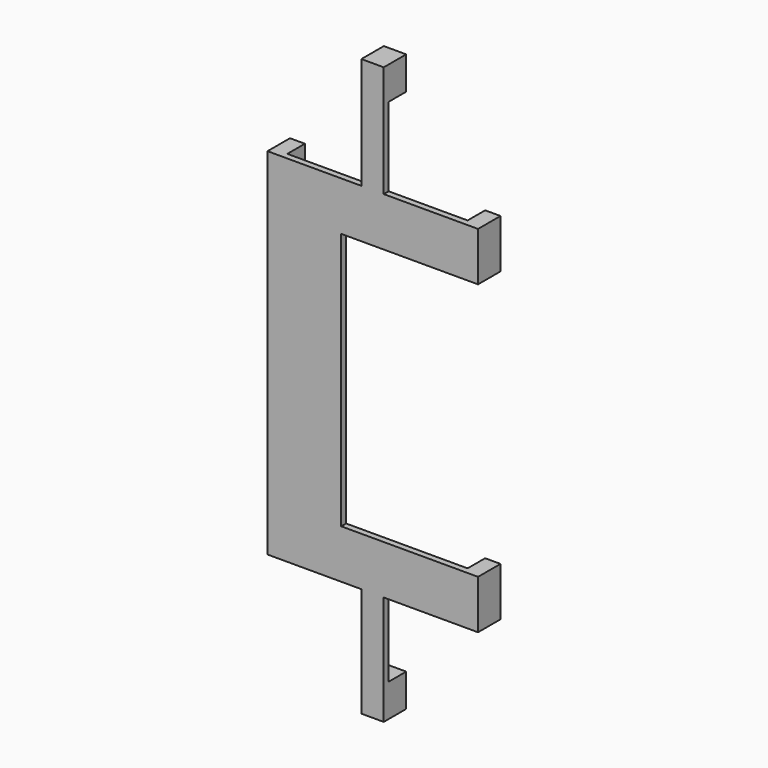
from build123d import *

# Parameters (mm, degrees)
F1_W     = 5.1
F1_H     = 25.4518292156
F1_W_2   = 16.8019917254
F1_H_2   = 58.7057016664
F1_H_3   = 24.982469118
F2_DEPTH = 1.4
F3_W     = 5.1
F3_H     = 7.5
F3_W_2   = 3.5
F3_H_2   = 11.13
F3_W_3   = 3.4
F3_H_3   = 80.9657016664
F4_DEPTH = 5


with BuildPart() as f2:
    # F1 (on Front) → F2 (new body)
    with BuildSketch(Plane.XZ):
        Polygon((-18.0032776748, 41.2461555663), (-39.4032776748, 41.2461555663), (-39.4032776748, 30.1161555663), (-22.6012859493, 30.1161555663), (8.5967223252, 30.1161555663), (8.5967223252, 41.2461555663), (-12.9032776748, 41.2461555663), align=None)
        with Locations((-15.4532776748, 53.9720701741)):
            Rectangle(F1_W, F1_H)
        with Locations((-31.0022818121, 0.7633047331)):
            Rectangle(F1_W_2, F1_H_2)
        Polygon((-22.6012859493, -28.5895461001), (-39.4032776748, -28.5895461001), (-39.4032776748, -39.7195461001), (-18.0032776748, -39.7195461001), (-12.9032776748, -39.7195461001), (8.5967223252, -39.7195461001), (8.5967223252, -28.5895461001), align=None)
        with Locations((-15.4532776748, -52.2107806591)):
            Rectangle(F1_W, F1_H_3)
    extrude(amount=F2_DEPTH)

    # F3 (on face) → F4 (join)
    with BuildSketch(Plane(origin=(0, 0, 0), x_dir=(-1, 0, 0), z_dir=(0, 1, 0))):
        with Locations((15.4532776748, 62.9479847819)):
            Rectangle(F3_W, F3_H)
        with Locations((-6.8467223252, 35.6811555663)):
            Rectangle(F3_W_2, F3_H_2)
        with Locations((37.7032776748, 0.7633047331)):
            Rectangle(F3_W_3, F3_H_3)
        with Locations((-6.8467223252, -34.1545461001)):
            Rectangle(F3_W_2, F3_H_2)
        with Locations((15.4532776748, -60.9520152181)):
            Rectangle(F3_W, F3_H)
    extrude(amount=F4_DEPTH)


solid = f2.part
